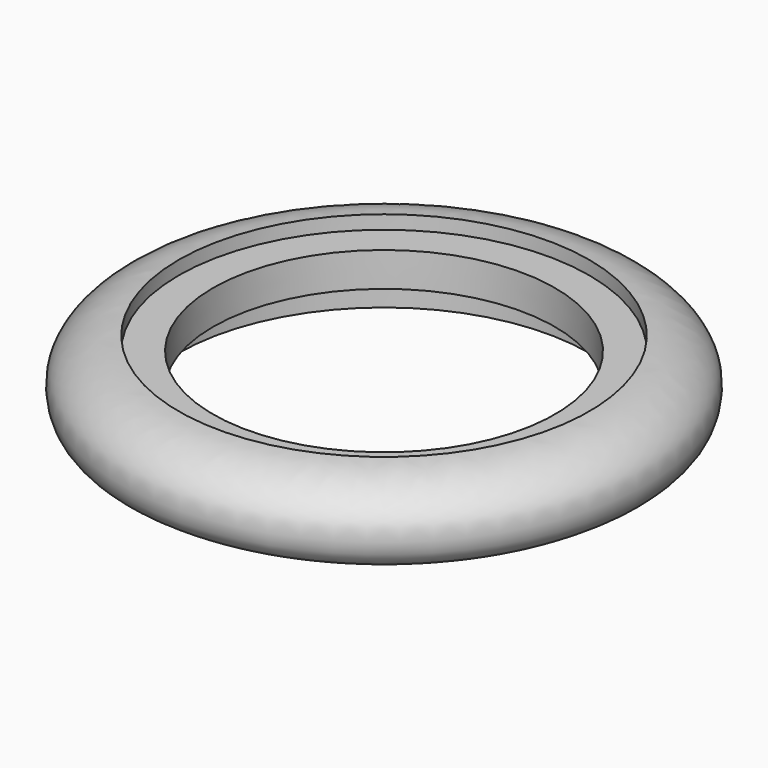
from build123d import *


with BuildPart() as f2:
    # F1 (on Front) → F2 (revolve)
    with BuildSketch(Plane.XZ):
        with BuildLine():
            Line((-76.2016050812, 12.7), (-63.5016050812, 12.7))
            Line((-63.5016050812, 12.7), (-63.5159976344, 25.4))
            Line((-63.5159976344, 25.4), (-76.2159976344, 25.4))
            Line((-76.2159976344, 25.4), (-76.2159976344, 30.48))
            add(Edge.make_bspline(
                [(-76.2159976344, 30.48), (-79.2489053365, 30.3144820393), (-87.220815095, 29.4794872554), (-98.5279463142, 20.7044150627), (-98.1243957152, 9.7677493312), (-93.7513341063, 3.2350908285), (-83.6999535024, 0), (-76.2016050812, 0)],
                knots=[0, 0, 0, 0, 0.1944051706, 0.4107404898, 0.5942982956, 0.7500516927, 1, 1, 1, 1], degree=3))
            Line((-76.2016050812, 0), (-76.2016050812, 12.7))
        make_face()
    revolve(axis=Axis((0, 0, 19.2106347531), (0, 0, -1)))


solid = f2.part
